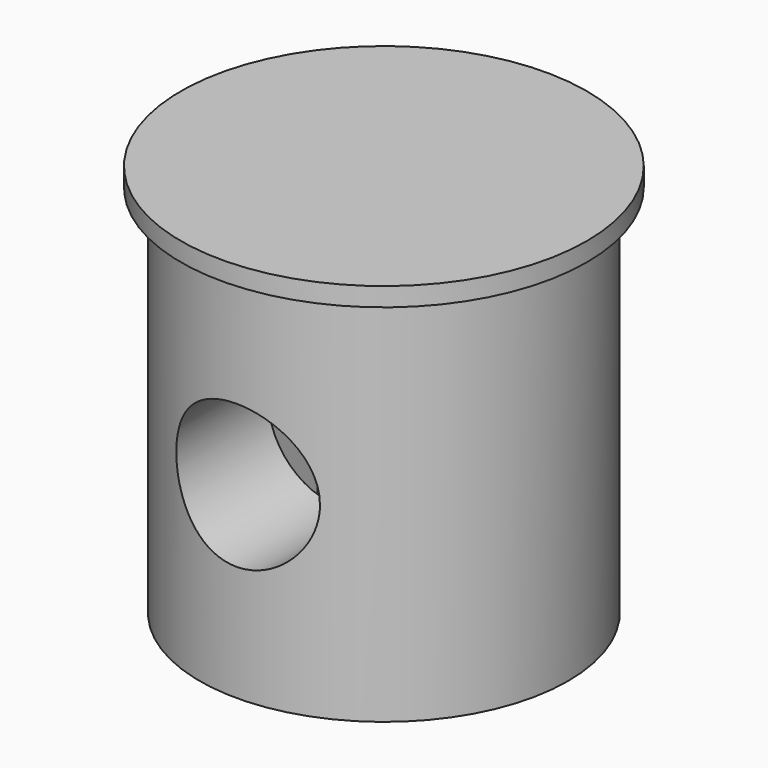
from build123d import *

# Parameters (mm, degrees)
PAD001_DEPTH = 1.75
SKETCH002_R  = 2.3
PAD002_DEPTH = 6.5
SKETCH_R     = 5.9
PAD_DEPTH    = 6
SKETCH003_R  = 6.5
PAD003_DEPTH = 0.6


with BuildPart() as pad001:
    # Sketch001 → Pad001 (new body, symmetric)
    with BuildSketch(Plane.XZ):
        Polygon((3.525, -2.03516), (3.525, 2.03516), (0, 4.070319), (-3.525, 2.03516), (-3.525, -2.03516), (-3.525, -6), (3.525, -6), align=None)
    extrude(amount=PAD001_DEPTH, both=True)


with BuildPart() as pad002:
    # Sketch002 → Pad002 (new body, symmetric)
    with BuildSketch(Plane.XZ):
        Circle(SKETCH002_R)
    extrude(amount=PAD002_DEPTH, both=True)


with BuildPart() as pad003:
    # Sketch → Pad (new body, symmetric)
    with BuildSketch(Plane.XY):
        Circle(SKETCH_R)
    extrude(amount=PAD_DEPTH, both=True)

    # Cut: cut Pad002
    add(pad002.part, mode=Mode.SUBTRACT)

    # Cut001: cut Pad001
    add(pad001.part, mode=Mode.SUBTRACT)

    # Sketch003 → Pad003 (new body)
    with BuildSketch(Plane.XY.offset(6)):
        Circle(SKETCH003_R)
    extrude(amount=PAD003_DEPTH)


solid = pad003.part
